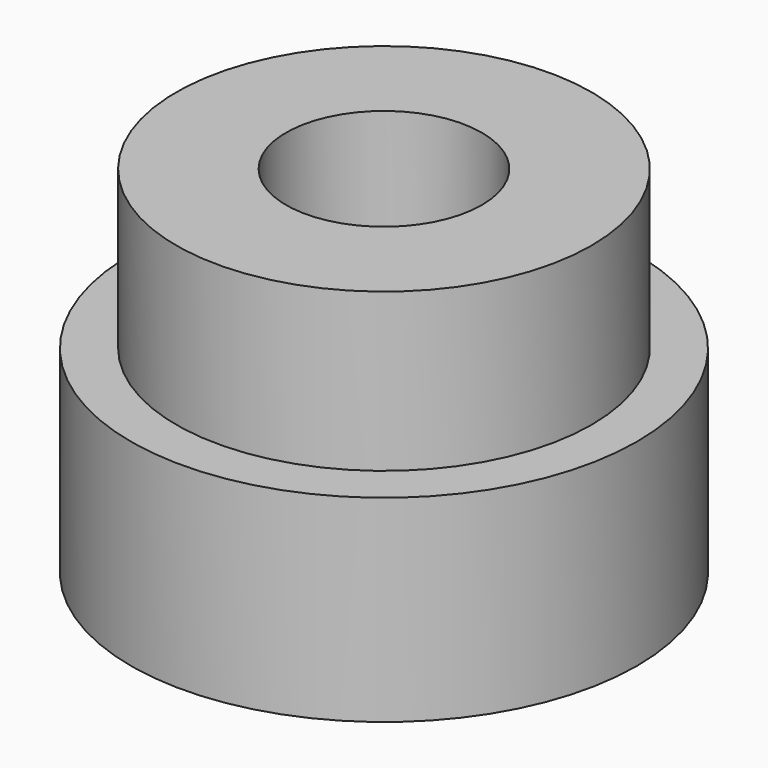
from build123d import *

# Parameters (mm, degrees)
F0_R     = 3.3655
F1_DEPTH = 2.558009
F2_R     = 4.1021
F3_DEPTH = 3.2
F4_R     = 2.3241
F5_DEPTH = 3.4544
F6_R     = 1.5875
F7_DEPTH = 7.62


with BuildPart() as f1:
    # F0 (on Top) → F1 (new body)
    with BuildSketch(Plane.XY):
        Circle(F0_R)
    extrude(amount=F1_DEPTH)

    # F2 (on face) → F3 (join)
    with BuildSketch(Plane(origin=(0, 0, 0), x_dir=(1, 0, 0), z_dir=(0, 0, -1))):
        Circle(F2_R)
    extrude(amount=F3_DEPTH)

    # F4 (on face) → F5 (cut)
    with BuildSketch(Plane(origin=(0, 0, -3.2), x_dir=(1, 0, 0), z_dir=(0, 0, -1))):
        Circle(F4_R)
    extrude(amount=-F5_DEPTH, mode=Mode.SUBTRACT)

    # F6 (on face) → F7 (cut)
    with BuildSketch(Plane.XY.offset(2.558009)):
        Circle(F6_R)
    extrude(amount=-F7_DEPTH, mode=Mode.SUBTRACT)


solid = f1.part
